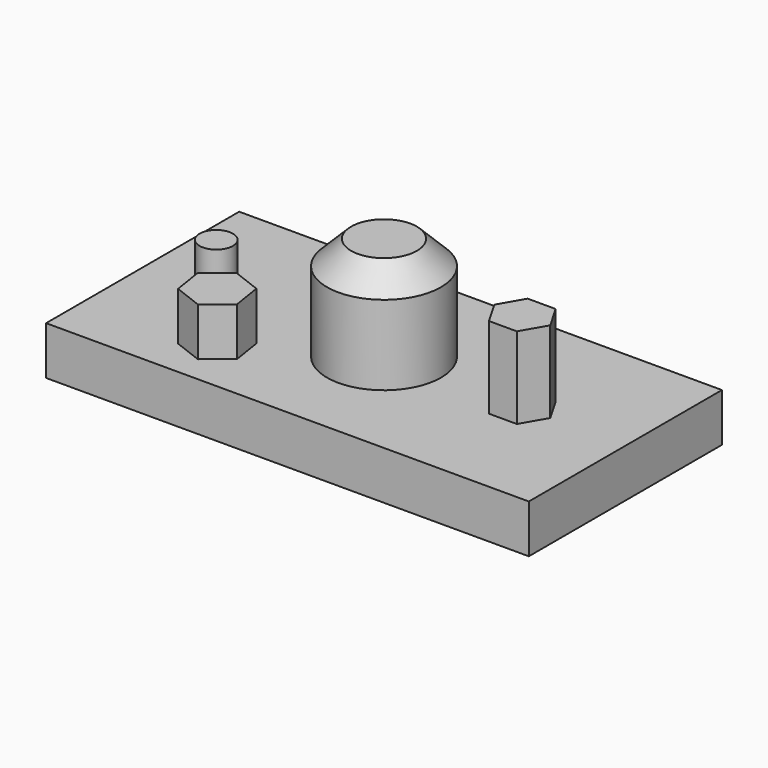
from build123d import *

# Parameters (mm, degrees)
F0_R      = 30
F1_DEPTH  = 80
F2_W      = 254
F2_H      = 127
F3_DEPTH  = 25.4
F4_SIZE   = 12.7
F5_R      = 8.764352
F6_DEPTH  = 25.4
F8_DEPTH  = 42.926
F10_DEPTH = 25.4


with BuildPart() as f1:
    # F0 (on Top) → F1 (new body)
    with BuildSketch(Plane.XY):
        Circle(F0_R)
    extrude(amount=F1_DEPTH)

    # F2 (on Top) → F3 (join)
    with BuildSketch(Plane.XY):
        Rectangle(F2_W, F2_H)
    extrude(amount=F3_DEPTH)

    # F4
    f4_edges = [f1.edges().sort_by_distance(p)[0] for p in [
        (-30, 0, 80),
    ]]
    chamfer(f4_edges, length=F4_SIZE)

    # F5 (on face) → F6 (join)
    with BuildSketch(Plane.XY.offset(25.4)):
        with Locations((-88.250794, 0)):
            Circle(F5_R)
    extrude(amount=F6_DEPTH)

    # F7 (on face) → F8 (join)
    with BuildSketch(Plane.XY.offset(25.4)):
        Polygon((80.111949, 12.750117), (65.389382, 12.750117), (58.028098, 0), (65.389382, -12.750117), (80.111949, -12.750117), (87.473232, 0), align=None)
    extrude(amount=F8_DEPTH)

    # F9 (on face) → F10 (join)
    with BuildSketch(Plane.XY.offset(25.4)):
        Polygon((-48.244875, -23.636972), (-63.256118, -17.863414), (-75.761787, -27.976753), (-73.256213, -43.863649), (-58.24497, -49.637207), (-45.739301, -39.523868), align=None)
    extrude(amount=F10_DEPTH)


solid = f1.part
